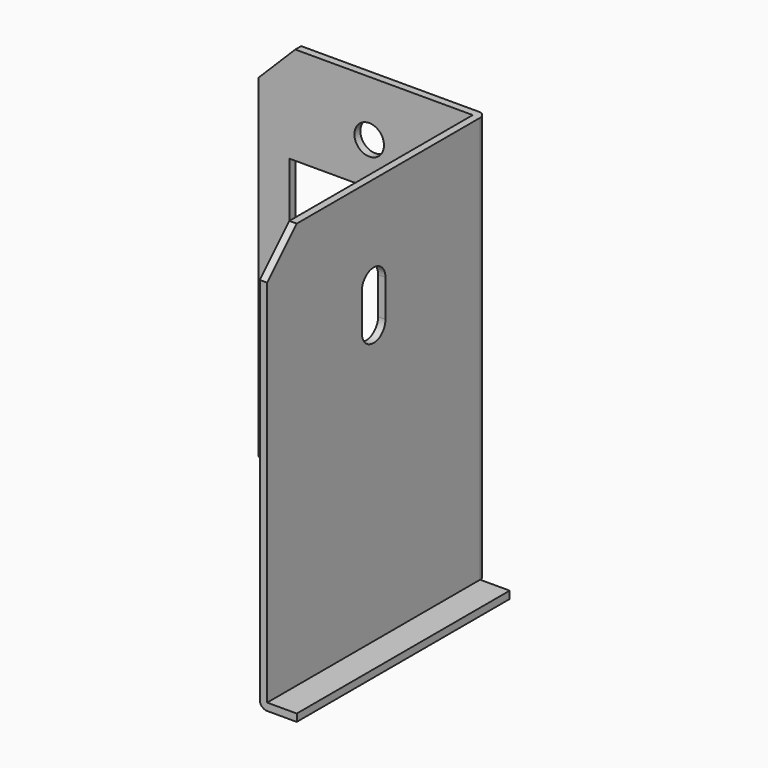
from build123d import *

# Parameters (mm, degrees)
F0_W     = 30
F0_H     = 55
F0_R     = 2
F0_W_2   = 21.5
F0_H_2   = 28.5
F1_DEPTH = 1
F3_DEPTH = 36
F5_DEPTH = 5.001
F6_SIZE  = 5
F7_R     = 1


with BuildPart() as f1:
    # F0 (on Front) → F1 (new body)
    with BuildSketch(Plane.XZ):
        with Locations((-15, 27.5)):
            Rectangle(F0_W, F0_H)
        with Locations((-15, 7.5)):
            Circle(F0_R, mode=Mode.SUBTRACT)
        with Locations((-15, 27.5)):
            Rectangle(F0_W_2, F0_H_2, mode=Mode.SUBTRACT)
        with Locations((-15, 47.5)):
            Circle(F0_R, mode=Mode.SUBTRACT)
    extrude(amount=F1_DEPTH)

    # F2 (on face) → F3 (join)
    with BuildSketch(Plane.XZ.offset(1)):
        Polygon((0, 0), (0, 55), (-1, 55), (-1, -1), (4, -1), (4, 0), align=None)
    extrude(amount=F3_DEPTH)

    # F4 (on face) → F5 (cut, through all)
    with BuildSketch(Plane(origin=(-1, 0, 0), x_dir=(0, -1, 0), z_dir=(-1, 0, 0))):
        with BuildLine():
            ThreePointArc((21, 42.5), (19, 44.5), (17, 42.5))
            Line((17, 42.5), (17, 37.5))
            ThreePointArc((17, 37.5), (19, 35.5), (21, 37.5))
            Line((21, 37.5), (21, 42.5))
        make_face()
    extrude(amount=-F5_DEPTH, mode=Mode.SUBTRACT)

    # F6
    f6_edges = [f1.edges().sort_by_distance(p)[0] for p in [
        (-30, -0.5, 55),
        (-0.5, -37, 55),
        (-30, -0.5, 0),
    ]]
    chamfer(f6_edges, length=F6_SIZE)

    # F7
    f7_edges = [f1.edges().sort_by_distance(p)[0] for p in [
        (0, 0, 27.5),
        (-1, -19, -1),
    ]]
    fillet(f7_edges, radius=F7_R)


solid = f1.part
